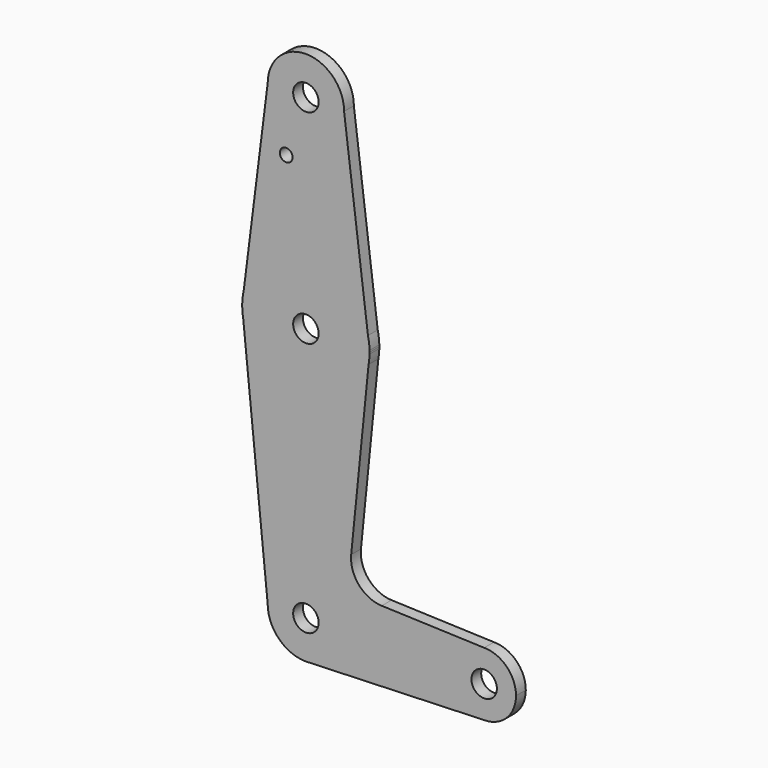
from build123d import *

# Parameters (mm, degrees)
F0_R     = 3.175
F0_R_2   = 1.5875
F1_DEPTH = 3.048


with BuildPart() as f1:
    # F0 (on Front) → F1 (new body)
    with BuildSketch(Plane.XZ):
        with BuildLine():
            ThreePointArc((-9.525, 114.3), (0, 104.775), (9.525, 114.3))
            ThreePointArc((9.525, 114.3), (0, 123.825), (-9.525, 114.3))
        make_face()
        with Locations((0, 114.3)):
            Circle(F0_R, mode=Mode.SUBTRACT)
        with BuildLine():
            Line((15.475692, 67.038161), (9.525, 114.3))
            ThreePointArc((9.525, 114.3), (0, 104.775), (-9.525, 114.3))
            Line((-9.525, 114.3), (-15.475692, 67.038161))
            ThreePointArc((-15.475692, 67.038161), (0, 79.375), (15.475692, 67.038161))
        make_face()
        with Locations((-4.914499, 100.0252)):
            Circle(F0_R_2, mode=Mode.SUBTRACT)
        with BuildLine():
            Line((15.869743, 63.908512), (15.475692, 67.038161))
            ThreePointArc((15.475692, 67.038161), (0, 79.375), (-15.475692, 67.038161))
            Line((-15.475692, 67.038161), (-15.869743, 63.908512))
            ThreePointArc((-15.869743, 63.908512), (-15.875, 63.5), (-15.869743, 63.091488))
            Line((-15.869743, 63.091488), (-15.633311, 60.740434))
            ThreePointArc((-15.633311, 60.740434), (0, 47.625), (15.633311, 60.740434))
            Line((15.633311, 60.740434), (15.869743, 63.091488))
            ThreePointArc((15.869743, 63.091488), (15.873686, 63.295727), (15.875, 63.5))
            ThreePointArc((15.875, 63.5), (15.873686, 63.704273), (15.869743, 63.908512))
        make_face()
        with Locations((0, 63.5)):
            Circle(F0_R, mode=Mode.SUBTRACT)
        with BuildLine():
            ThreePointArc((15.869743, 63.908512), (15.750643, 65.483148), (15.475692, 67.038161))
            Line((15.475692, 67.038161), (15.869743, 63.908512))
        make_face()
        with BuildLine():
            Line((-15.869743, 63.908512), (-15.475692, 67.038161))
            ThreePointArc((-15.475692, 67.038161), (-15.750643, 65.483148), (-15.869743, 63.908512))
        make_face()
        with BuildLine():
            Line((-15.633311, 60.740434), (-15.869743, 63.091488))
            ThreePointArc((-15.869743, 63.091488), (-15.795331, 61.911556), (-15.633311, 60.740434))
        make_face()
        with BuildLine():
            ThreePointArc((15.633311, 60.740434), (15.795331, 61.911556), (15.869743, 63.091488))
            Line((15.869743, 63.091488), (15.633311, 60.740434))
        make_face()
        with BuildLine():
            ThreePointArc((15.633311, 60.740434), (0, 47.625), (-15.633311, 60.740434))
            Line((-15.633311, 60.740434), (-9.525, 0))
            ThreePointArc((-9.525, 0), (0, 9.525), (9.525, 0))
            ThreePointArc((9.525, 0), (6.97129, -6.490511), (0.67949, -9.500732))
            Line((0.67949, -9.500732), (44.45, -7.9375))
            ThreePointArc((44.45, -7.9375), (36.5125, 0), (44.45, 7.9375))
            Line((44.45, 7.9375), (18.91972, 8.852811))
            ThreePointArc((18.91972, 8.852811), (13.213775, 11.571426), (11.294266, 17.593399))
            Line((11.294266, 17.593399), (15.633311, 60.740434))
        make_face()
        with BuildLine():
            ThreePointArc((9.525, 0), (0, 9.525), (-9.525, 0))
            ThreePointArc((-9.525, 0), (-6.735192, -6.735192), (0, -9.525))
            Line((0, -9.525), (0.67949, -9.500732))
            ThreePointArc((0.67949, -9.500732), (6.97129, -6.490511), (9.525, 0))
        make_face()
        Circle(F0_R, mode=Mode.SUBTRACT)
        with BuildLine():
            Line((0.67949, -9.500732), (0, -9.525))
            ThreePointArc((0, -9.525), (0.339962, -9.518931), (0.67949, -9.500732))
        make_face()
        with BuildLine():
            ThreePointArc((52.3875, 0), (50.06266, 5.61266), (44.45, 7.9375))
            ThreePointArc((44.45, 7.9375), (36.5125, 0), (44.45, -7.9375))
            ThreePointArc((44.45, -7.9375), (50.06266, -5.61266), (52.3875, 0))
        make_face()
        with Locations((44.45, 0)):
            Circle(F0_R, mode=Mode.SUBTRACT)
    extrude(amount=F1_DEPTH)


solid = f1.part
